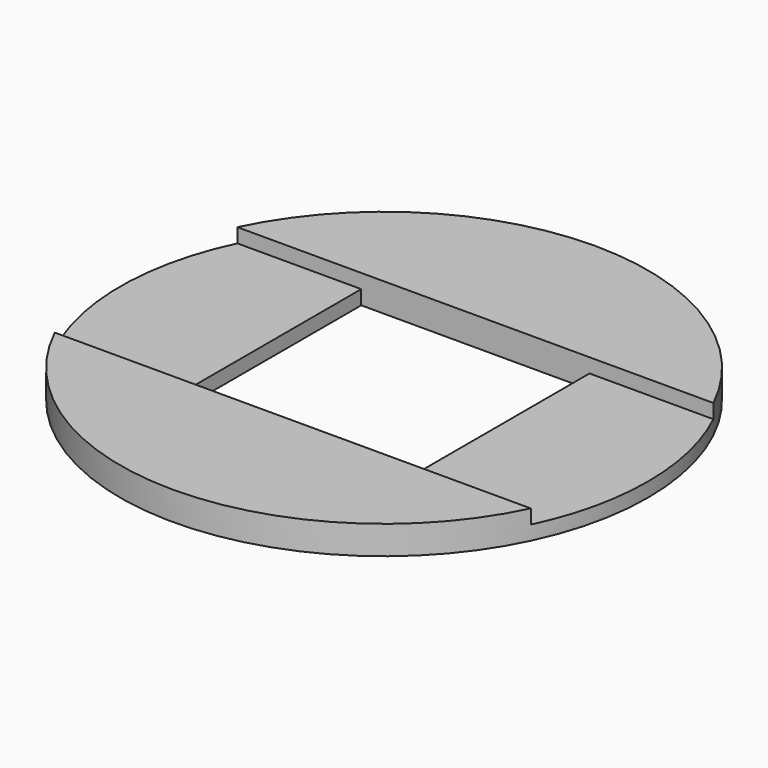
from build123d import *

# Parameters (mm, degrees)
BOX023_W          = 4
BOX023_H          = 10
BOX023_DEPTH      = 0.2
BOX024_W          = 8
BOX024_H          = 5
BOX024_DEPTH      = 0.4
BOX022_W          = 4
BOX022_H          = 10
BOX022_DEPTH      = 0.2
BOX025_W          = 8
BOX025_H          = 5
BOX025_DEPTH      = 0.4
CYLINDER017_R     = 3.7
CYLINDER017_DEPTH = 10


with BuildPart() as cube023:
    # Box023 → Box023 (new body)
    with BuildSketch(Plane(origin=(-5.6, -5, 0), x_dir=(1, 0, 0), z_dir=(0, 0, 1))):
        with Locations((2, 5)):
            Rectangle(BOX023_W, BOX023_H)
    extrude(amount=BOX023_DEPTH)


with BuildPart() as cube024:
    # Box024 → Box024 (new body)
    with BuildSketch(Plane(origin=(-4, -6.6, 0), x_dir=(1, 0, 0), z_dir=(0, 0, 1))):
        with Locations((4, 2.5)):
            Rectangle(BOX024_W, BOX024_H)
    extrude(amount=BOX024_DEPTH)


with BuildPart() as cube022:
    # Box022 → Box022 (new body)
    with BuildSketch(Plane(origin=(1.6, -5, 0), x_dir=(1, 0, 0), z_dir=(0, 0, 1))):
        with Locations((2, 5)):
            Rectangle(BOX022_W, BOX022_H)
    extrude(amount=BOX022_DEPTH)


with BuildPart() as fusion004009004:
    # Box025 → Box025 (new body)
    with BuildSketch(Plane(origin=(-4, 1.6, 0), x_dir=(1, 0, 0), z_dir=(0, 0, 1))):
        with Locations((4, 2.5)):
            Rectangle(BOX025_W, BOX025_H)
    extrude(amount=BOX025_DEPTH)

    # Fusion004009004: union Cube023, Cube024, Cube022
    add(cube023.part)
    add(cube024.part)
    add(cube022.part)


with BuildPart() as screw_hole_support:
    # Cylinder017 → Cylinder017 (new body)
    with BuildSketch(Plane.XY):
        Circle(CYLINDER017_R)
    extrude(amount=CYLINDER017_DEPTH)

    # Common: intersect Fusion004009004
    add(fusion004009004.part, mode=Mode.INTERSECT)


with BuildPart() as screw_hole_support_1:
    # Common placement: moved
    add(screw_hole_support.part.moved(Location((9.85, 10, 6))))


solid = screw_hole_support_1.part
